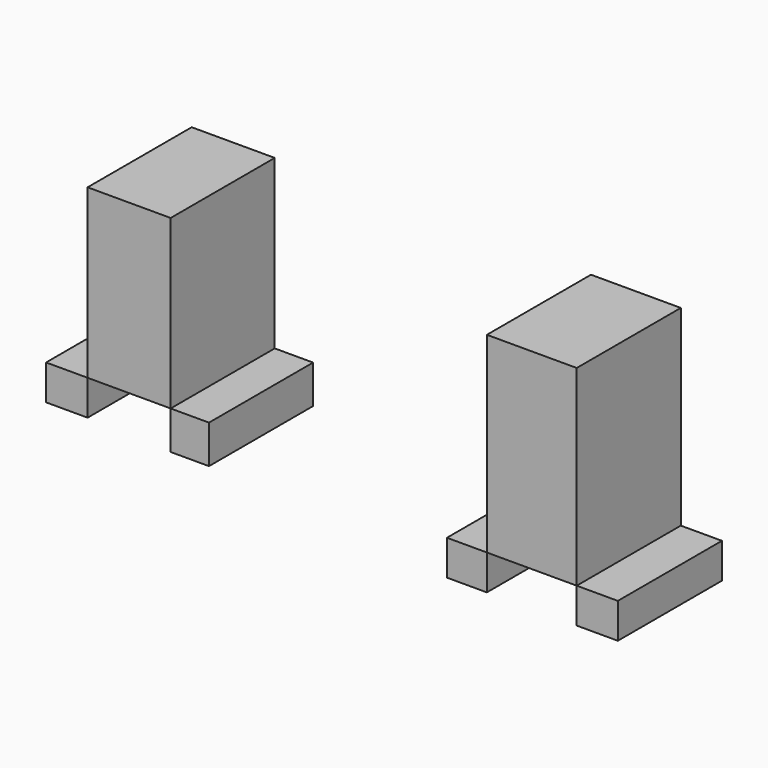
from build123d import *

# Parameters (mm, degrees)
F0_W     = 16.212426126
F0_H     = 32.7403051779
F1_DEPTH = 25.4
F0_W_2   = 8.1066712737
F0_H_2   = 6.8594915792
F0_W_3   = 7.4840001762
F0_H_3   = 7.4830828235
F0_W_4   = 7.7948775142
F0_H_4   = 6.8594925106
F0_W_5   = 8.0275759101
F0_W_6   = 17.5396222621
F0_H_5   = 37.4172311276


with BuildPart() as f1:
    # F0 (on Front) → F1 (new body)
    with BuildSketch(Plane.XZ):
        with Locations((-43.3399751782, 3.7424531765)):
            Rectangle(F0_W, F0_H)
    extrude(amount=F1_DEPTH)


with BuildPart() as f1b:
    # F0 (on Front) → F1, piece 2 (new body)
    with BuildSketch(Plane.XZ):
        with Locations((-55.4995238781, -16.057445202)):
            Rectangle(F0_W_2, F0_H_2)
    extrude(amount=F1_DEPTH)


with BuildPart() as f1c:
    # F0 (on Front) → F1, piece 3 (new body)
    with BuildSketch(Plane.XZ):
        with Locations((-31.4917620271, -16.3692408241)):
            Rectangle(F0_W_3, F0_H_3)
    extrude(amount=F1_DEPTH)


with BuildPart() as f1d:
    # F0 (on Front) → F1, piece 4 (new body)
    with BuildSketch(Plane.XZ):
        with Locations((22.6051425561, -20.7343716174)):
            Rectangle(F0_W_4, F0_H_4)
    extrude(amount=F1_DEPTH)


with BuildPart() as f1e:
    # F0 (on Front) → F1, piece 5 (new body)
    with BuildSketch(Plane.XZ):
        with Locations((48.0559915304, -20.7343716174)):
            Rectangle(F0_W_5, F0_H_4)
    extrude(amount=F1_DEPTH)


with BuildPart() as f1f:
    # F0 (on Front) → F1, piece 6 (new body)
    with BuildSketch(Plane.XZ):
        with Locations((35.2723924443, 1.4039902017)):
            Rectangle(F0_W_6, F0_H_5)
    extrude(amount=F1_DEPTH)


solid = Compound([f1.part, f1b.part, f1c.part, f1d.part, f1e.part, f1f.part])
